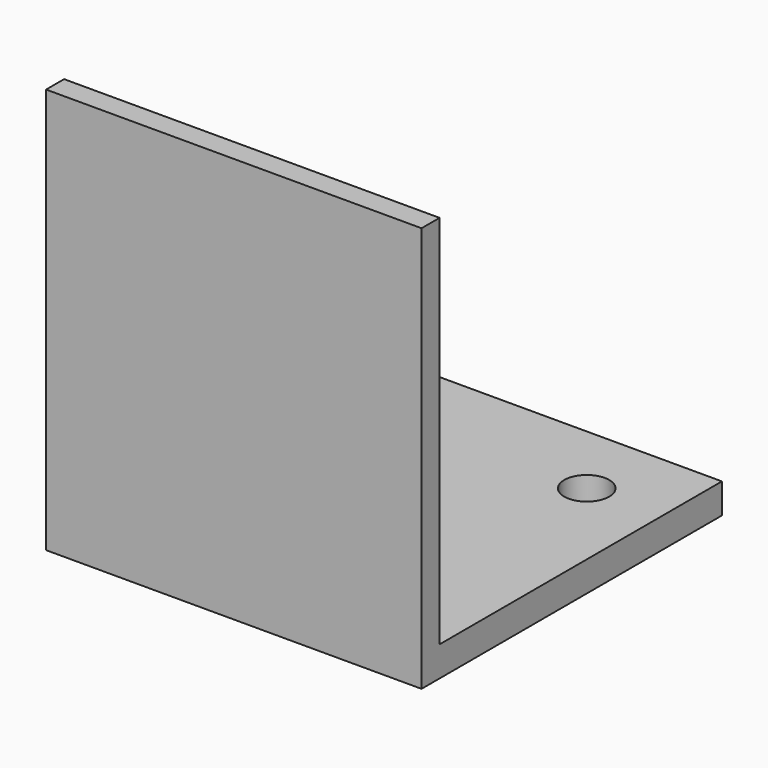
from build123d import *

# Parameters (mm, degrees)
F0_W     = 50
F0_H     = 50
F1_DEPTH = 4
F2_W     = 50
F2_H     = 3
F3_DEPTH = 50
F4_R     = 3
F5_DEPTH = 25


with BuildPart() as f1:
    # F0 (on Top) → F1 (new body)
    with BuildSketch(Plane.XY):
        Rectangle(F0_W, F0_H)
    extrude(amount=F1_DEPTH)

    # F2 (on face) → F3 (join)
    with BuildSketch(Plane.XY.offset(4)):
        with Locations((0, -23.5)):
            Rectangle(F2_W, F2_H)
    extrude(amount=F3_DEPTH)

    # F4 (on face) → F5 (cut)
    with BuildSketch(Plane.XY.offset(4)):
        with Locations((-15, 15)):
            Circle(F4_R)
        with Locations((-15, -15)):
            Circle(F4_R)
        with Locations((15, -15)):
            Circle(F4_R)
        with Locations((15, 15)):
            Circle(F4_R)
    extrude(amount=-F5_DEPTH, mode=Mode.SUBTRACT)


solid = f1.part
